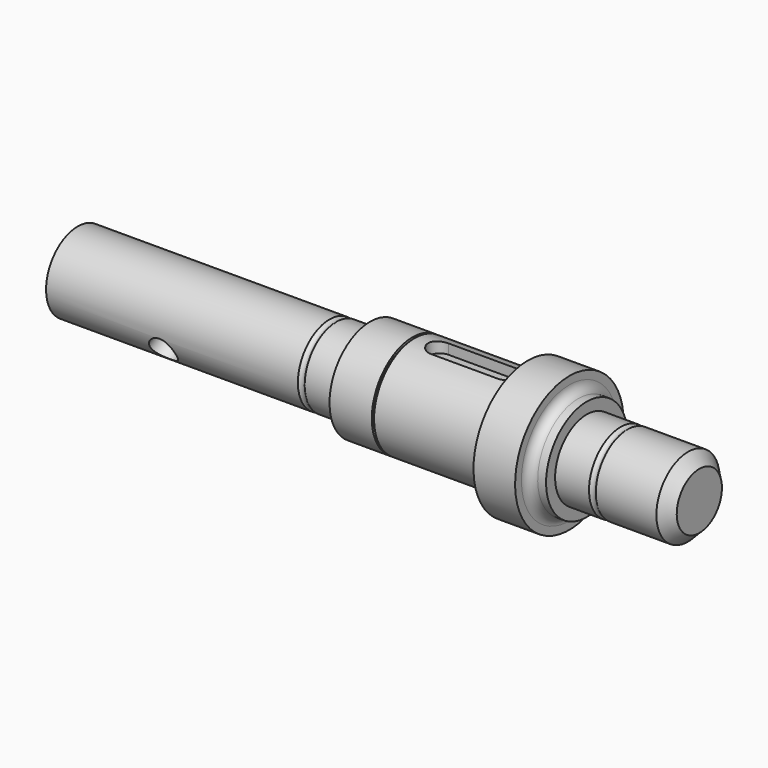
from build123d import *

# Parameters (mm, degrees)
F2_W           = 1
F2_H           = 12
F4_R           = 1.9571428571
F7_START       = 17.5
F7_DEPTH       = 42.5
F11_R          = 6
F12_DEPTH      = 25
F12_DEPTH_BACK = 25


with BuildPart() as f1:
    # F0 (on Front) → F1 (revolve)
    with BuildSketch(Plane.XZ):
        with BuildLine():
            Line((-199.1, 17.5), (-199.1, 0))
            Line((-199.1, 0), (75.9, 0))
            Line((75.9, 0), (75.9, 12.5))
            Line((75.9, 12.5), (70.9, 17.5))
            Line((70.9, 17.5), (26.1, 17.5))
            Line((26.1, 17.5), (26.1, 22.5))
            Line((26.1, 22.5), (22.4, 22.5))
            ThreePointArc((22.4, 22.5), (19.5715728753, 23.6715728753), (18.4, 26.5))
            Line((18.4, 26.5), (18.4, 30))
            Line((18.4, 30), (0, 30))
            Line((0, 30), (0, 22.5))
            Line((0, 22.5), (-69.7, 22.5))
            Line((-69.7, 22.5), (-69.7, 17.5))
            Line((-69.7, 17.5), (-199.1, 17.5))
        make_face()
    revolve(axis=Axis((-55.8219029194, 0, 0), (1, 0, 0)))

    # F2 (on Front) → F3 (revolve, cut)
    with BuildSketch(Plane.XZ):
        with Locations((-50.5, 27.5)):
            Rectangle(F2_W, F2_H)
    revolve(axis=Axis((-55.8219029194, 0, 0), (1, 0, 0)), mode=Mode.SUBTRACT)

    # F4 (on Front) → F5 (revolve, cut)
    with BuildSketch(Plane.XZ):
        with Locations((-86.2, 18.7571428571)):
            Circle(F4_R)
        with Locations((42.6, 18.7571428571)):
            Circle(F4_R)
        with BuildLine():
            Line((-3.4571428571, 32.4009352645), (-3.4571428571, 23.7571428571))
            ThreePointArc((-3.4571428571, 23.7571428571), (-2.1688399949, 21.9178328712), (0, 22.5))
            Line((0, 22.5), (0, 32.4009352645))
            Line((0, 32.4009352645), (-3.4571428571, 32.4009352645))
        make_face()
    revolve(axis=Axis((-55.8219029194, 0, 0), (1, 0, 0)), mode=Mode.SUBTRACT)

    # F6 (on Top) → F7 (cut)
    with BuildSketch(Plane.XY.offset(F7_START)):
        with BuildLine():
            Line((-9, 5), (-39, 5))
            ThreePointArc((-39, 5), (-44, 0), (-39, -5))
            Line((-39, -5), (-9, -5))
            ThreePointArc((-9, -5), (-4, 0), (-9, 5))
        make_face()
    extrude(amount=F7_DEPTH, mode=Mode.SUBTRACT)

    # F11 (on line) → F12 (cut, two sides)
    with BuildSketch(Plane(origin=(0, 0, 0), x_dir=(1, 0, 0), z_dir=(0, -0.8660254038, -0.5))) as f12_sk:
        with Locations((-149.1, 0)):
            Circle(F11_R)
    extrude(amount=-F12_DEPTH, mode=Mode.SUBTRACT)
    extrude(f12_sk.sketch, amount=F12_DEPTH_BACK, mode=Mode.SUBTRACT)


solid = f1.part
